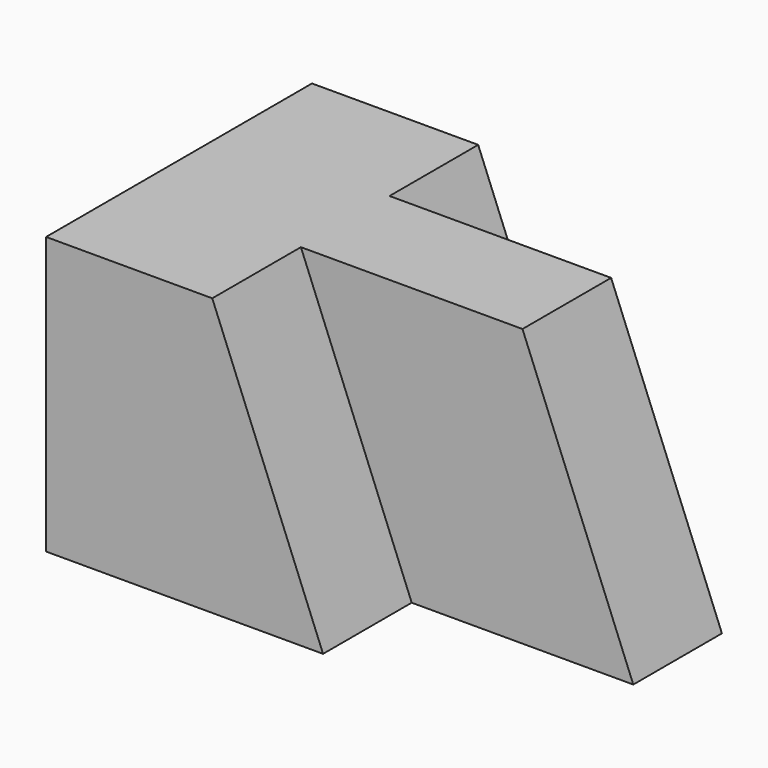
from build123d import *

# Parameters (mm, degrees)
F0_W     = 57.15
F0_H     = 31.75
F1_DEPTH = 38.1
F2_W     = 38.1
F2_H     = 12.7
F3_DEPTH = 31.75
F5_DEPTH = 12.7
F7_DEPTH = 25.4
F9_DEPTH = 25.4


with BuildPart() as f1:
    # F0 (on Front) → F1 (new body)
    with BuildSketch(Plane.XZ):
        with Locations((28.575, 15.875)):
            Rectangle(F0_W, F0_H)
    extrude(amount=F1_DEPTH)

    # F2 (on face) → F3 (cut)
    with BuildSketch(Plane.XY.offset(31.75)):
        with Locations((38.1, -31.75)):
            Rectangle(F2_W, F2_H)
        with Locations((38.1, -6.35)):
            Rectangle(F2_W, F2_H)
    extrude(amount=-F3_DEPTH, mode=Mode.SUBTRACT)

    # F4 (on face) → F5 (join)
    with BuildSketch(Plane.XZ.offset(25.4)):
        Polygon((19.05, 31.75), (19.05, 0), (31.75, 0), align=None)
    extrude(amount=F5_DEPTH)

    # F8 (on face) → F9 (cut)
    with BuildSketch(Plane.XZ.offset(25.4)):
        Polygon((57.15, 31.75), (44.45, 31.75), (57.15, 0), align=None)
    extrude(amount=-F9_DEPTH, mode=Mode.SUBTRACT)


with BuildPart() as f7:
    # F6 (on face) → F7 (new body)
    with BuildSketch(Plane(origin=(0, 0, 0), x_dir=(-1, 0, 0), z_dir=(0, 1, 0))):
        Polygon((-31.75, 0), (-19.05, 0), (-19.05, 31.75), align=None)
    extrude(amount=-F7_DEPTH)


solid = Compound([f1.part, f7.part])
